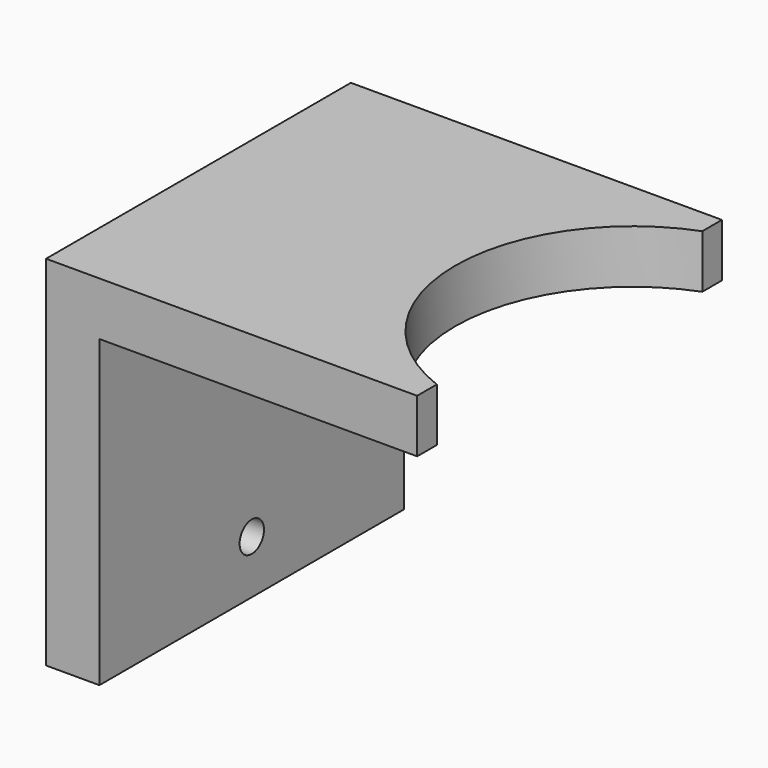
from build123d import *

# Parameters (mm, degrees)
PAD_DEPTH       = 50
SKETCH001_R     = 23.31
POCKET_DEPTH    = 7
SKETCH002_R     = 2
POCKET001_DEPTH = 7


with BuildPart() as part:
    # Sketch → Pad (new body)
    with BuildSketch(Plane.XZ):
        Polygon((-41.7, -27), (-48.7, -27), (-48.7, 20), (0, 20), (0, 13), (-41.7, 13), align=None)
    extrude(amount=-PAD_DEPTH)

    # Sketch001 → Pocket (cut)
    with BuildSketch(Plane(origin=(0, 0, 20), x_dir=(-1, 0, 0), z_dir=(0, 0, 1))):
        with Locations((-8.31, -25)):
            Circle(SKETCH001_R)
    extrude(amount=-POCKET_DEPTH, mode=Mode.SUBTRACT)

    # Sketch002 → Pocket001 (cut)
    with BuildSketch(Plane(origin=(-48.7, 0, 0), x_dir=(0, 0, -1), z_dir=(-1, 0, 0))):
        with Locations((20, -25)):
            Circle(SKETCH002_R)
    extrude(amount=-POCKET001_DEPTH, mode=Mode.SUBTRACT)


solid = part.part
